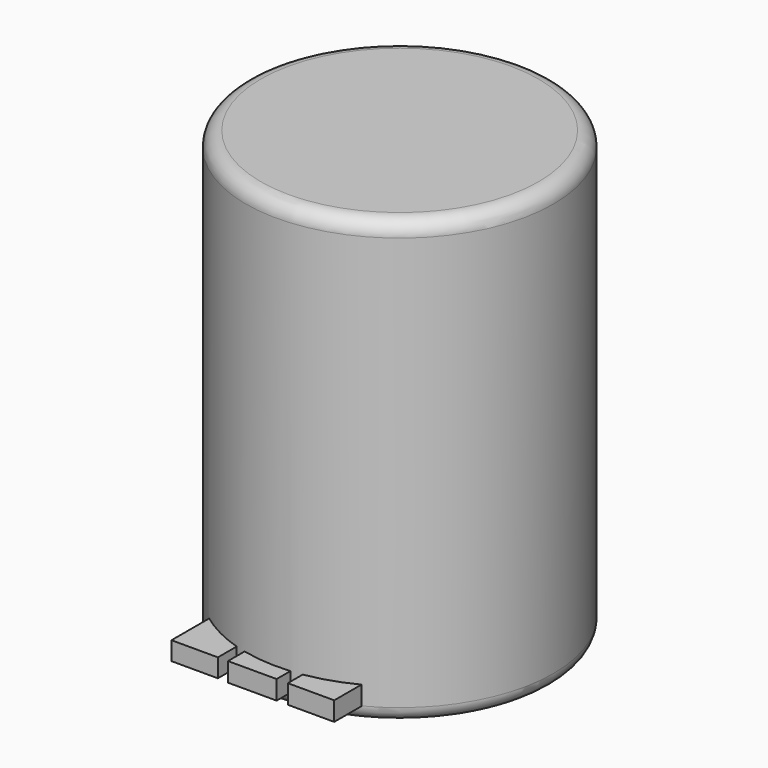
from build123d import *

# Parameters (mm, degrees)
F0_W     = 52.7011975646
F0_H     = 151.7794504762
F2_R     = 5.08
F3_W     = 15.9061774611
F3_H     = 6.3241422176
F3_W_2   = 16.6727416217
F3_H_2   = 6.5157860518
F3_W_3   = 15.9061811864
F4_DEPTH = 58.42


with BuildPart() as f1:
    # F0 (on Front) → F1 (revolve)
    with BuildSketch(Plane.XZ):
        with Locations((-26.3505987823, -0.0958181918)):
            Rectangle(F0_W, F0_H)
    revolve(axis=Axis((-52.7011975646, 0, -0.0958181918), (0, 0, 1)))

    # F2
    f2_edges = [f1.edges().sort_by_distance(p)[0] for p in [
        (-105.402395, 0, 75.793907),
        (-105.402395, 0, -75.985543),
    ]]
    fillet(f2_edges, radius=F2_R)

    # F3 (on Front) → F4 (join)
    with BuildSketch(Plane.XZ):
        with Locations((-76.2136913836, -67.6491707563)):
            Rectangle(F3_W, F3_H)
        with Locations((-56.4746949822, -67.7449926734)):
            Rectangle(F3_W_2, F3_H_2)
        with Locations((-36.3524202257, -67.7449926734)):
            Rectangle(F3_W_3, F3_H_2)
    extrude(amount=F4_DEPTH)


solid = f1.part
